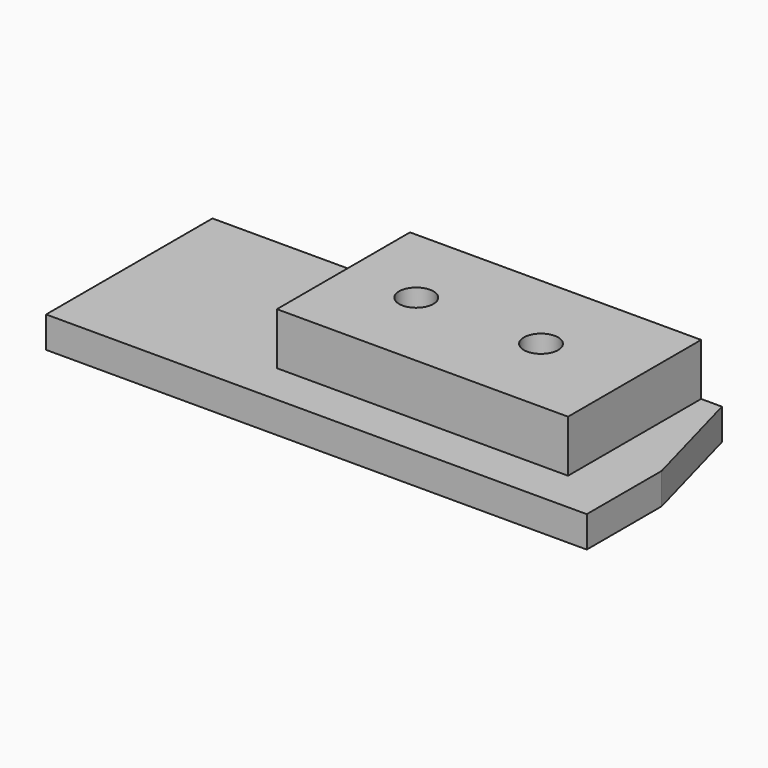
from build123d import *

# Parameters (mm, degrees)
F1_DEPTH = 3
F2_R     = 4.75
F3_DEPTH = 1
F4_W     = 28
F4_H     = 16
F5_DEPTH = 5
F7_D     = 3.3
F7_DEPTH = 5
F7_TIP   = 0.9914200214


with BuildPart() as f1:
    # F0 (on Top) → F1 (new body)
    with BuildSketch(Plane.XY):
        Polygon((23, 10), (-26, 10), (-26, -10), (26, -10), (26, -1), align=None)
    extrude(amount=-F1_DEPTH)

    # F2 (on face) → F3 (cut)
    with BuildSketch(Plane(origin=(0, 0, -3), x_dir=(1, 0, 0), z_dir=(0, 0, -1))):
        with Locations((19, 3)):
            Circle(F2_R)
        with Locations((6.3, 2.3)):
            Circle(F2_R)
        with Locations((-6.4, 1.7)):
            Circle(F2_R)
        with Locations((-19.1, 1)):
            Circle(F2_R)
    extrude(amount=-F3_DEPTH, mode=Mode.SUBTRACT)

    # F4 (on face) → F5 (join)
    with BuildSketch(Plane.XY):
        with Locations((7, 2)):
            Rectangle(F4_W, F4_H)
    extrude(amount=F5_DEPTH)

    # F7
    with Locations(Plane.XY.offset(5)):
        with Locations((0, 2), (12, 2)):
            Hole(F7_D / 2, depth=F7_DEPTH)
            with Locations((0, 0, -(F7_DEPTH + F7_TIP / 2))):  # 118° drill point
                Cone(0, F7_D / 2, F7_TIP, mode=Mode.SUBTRACT)


solid = f1.part
